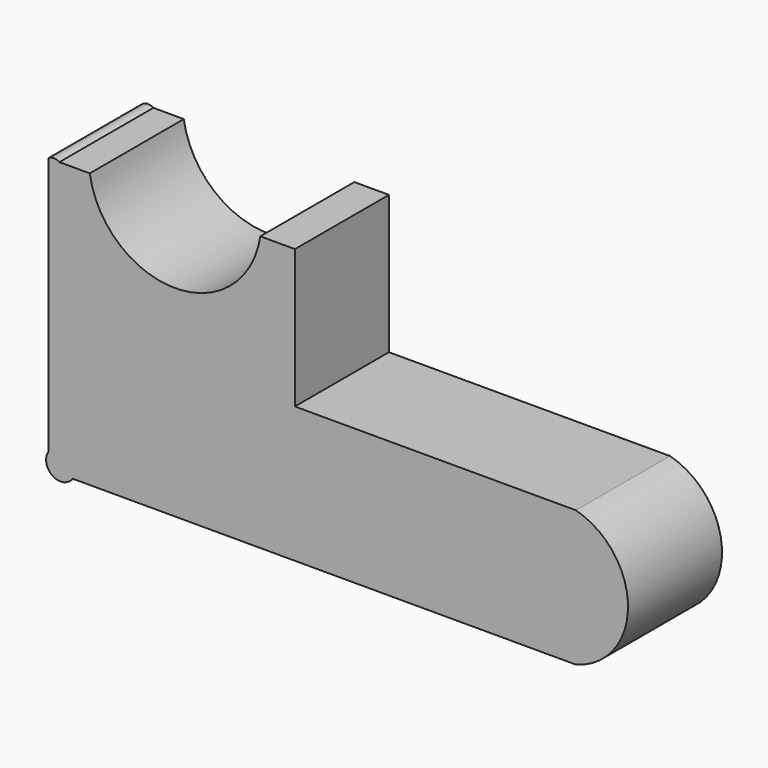
from build123d import *

# Parameters (mm, degrees)
F1_DEPTH = 25.4


with BuildPart() as f1:
    # F0 (on Front) → F1 (new body)
    with BuildSketch(Plane.XZ):
        with BuildLine():
            ThreePointArc((-65.188006, -10.504911), (-65.710849, -12.231745), (-65.188006, -13.958579))
            Line((-65.188006, -13.958579), (-65.188006, -10.504911))
        make_face()
        with BuildLine():
            Line((-65.188006, -10.504911), (-65.188006, -13.958579))
            ThreePointArc((-65.188006, -13.958579), (-62.597753, -15.34484), (-60.007501, -13.958579))
            Line((-60.007501, -13.958579), (48.783075, -13.958579))
            ThreePointArc((48.783075, -13.958579), (60.032035, 0.719514), (48.783075, 15.397607))
            Line((48.783075, 15.397607), (-11.943939, 15.397607))
            Line((-11.943939, 15.397607), (-11.943939, 45.329407))
            Line((-11.943939, 45.329407), (-19.42689, 45.329407))
            ThreePointArc((-19.42689, 45.329407), (-37.846457, 29.491195), (-56.266025, 45.329407))
            Line((-56.266025, 45.329407), (-62.837593, 45.329407))
            ThreePointArc((-62.837593, 45.329407), (-62.285965, 42.427367), (-65.188006, 41.875739))
            Line((-65.188006, 41.875739), (-65.188006, -10.504911))
        make_face()
        with BuildLine():
            Line((-65.188006, 45.329407), (-65.188006, 41.875739))
            ThreePointArc((-65.188006, 41.875739), (-62.285965, 42.427367), (-62.837593, 45.329407))
            Line((-62.837593, 45.329407), (-65.188006, 45.329407))
        make_face()
        with BuildLine():
            ThreePointArc((-62.837593, 45.329407), (-64.0128, 45.691368), (-65.188006, 45.329407))
            Line((-65.188006, 45.329407), (-62.837593, 45.329407))
        make_face()
    extrude(amount=F1_DEPTH)


solid = f1.part
